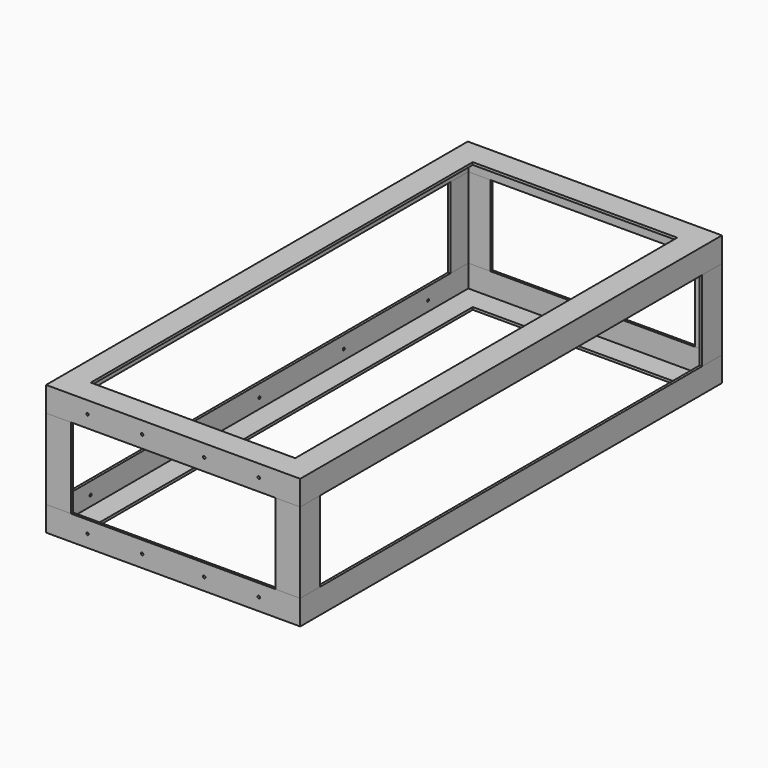
from build123d import *

# Parameters (mm, degrees)
F12_R     = 2.5
F13_DEPTH = 4.9999998882
F14_R     = 2.5
F15_DEPTH = 4.9999998882


with BuildPart() as f2:
    # F2: sweep along a path in F0
    with BuildLine(Plane.XY) as f2_path:
        Line((0, 0), (512, 0))
        Line((512, 0), (512, 1062))
        Line((512, 1062), (0, 1062))
        Line((0, 1062), (0, 0))
    # F1 (on Right) → F2 (sweep)
    with BuildSketch(Plane.YZ):
        Polygon((4.9999998882, 50), (0, 50), (0, 0), (50, 0), (50, 4.9999998882), (4.9999998882, 4.9999998882), align=None)
    sweep(path=f2_path.line, transition=Transition.RIGHT)


with BuildPart() as f4_1:
    # F4: instance of F2
    add(f2.part.mirror(Plane.XY.offset(131)))


with BuildPart() as f7:
    # F7: sweep along a path in F5
    with BuildLine(Plane.XZ) as f7_path:
        Line((0, 50), (0, 212))
    # F6 (on face) → F7 (sweep)
    with BuildSketch(Plane.XY.offset(50)):
        Polygon((4.9999998882, 50), (0, 50), (0, 0), (50, 0), (50, 4.9999998882), (4.9999998882, 4.9999998882), align=None)
    sweep(path=f7_path.line)


with BuildPart() as f9_1:
    # F9: instance of F7
    add(f7.part.mirror(Plane.XZ.offset(-531)))


with BuildPart() as f11_1:
    # F11: instance of F7
    add(f7.part.mirror(Plane.YZ.offset(256)))


with BuildPart() as f11_2:
    # F11: instance of F9_1
    add(f9_1.part.mirror(Plane.YZ.offset(256)))


with BuildPart() as f13_tool:
    # F12 (on face) → F13 (new body, through all)
    with BuildSketch(Plane(origin=(0, 0, 0), x_dir=(0, -1, 0), z_dir=(-1, 0, 0))):
        with Locations((-956, 237)):
            Circle(F12_R)
        with Locations((-743.5, 237)):
            Circle(F12_R)
        with Locations((-318.5, 237)):
            Circle(F12_R)
        with Locations((-106, 237)):
            Circle(F12_R)
        with Locations((-318.5, 25)):
            Circle(F12_R)
        with Locations((-743.5, 25)):
            Circle(F12_R)
        with Locations((-106, 25)):
            Circle(F12_R)
        with Locations((-956, 25)):
            Circle(F12_R)
        with Locations((-531, 237)):
            Circle(F12_R)
        with Locations((-531, 25)):
            Circle(F12_R)
    extrude(amount=-F13_DEPTH)


with BuildPart() as f2_1:
    add(f2.part)

    # F13: cut by f13_tool
    add(f13_tool.part, mode=Mode.SUBTRACT)


with BuildPart() as f4_1_1:
    add(f4_1.part)

    # F13: cut by f13_tool
    add(f13_tool.part, mode=Mode.SUBTRACT)


with BuildPart() as f15_tool:
    # F14 (on face) → F15 (new body, through all)
    with BuildSketch(Plane.XZ):
        with Locations((83.5, 237)):
            Circle(F14_R)
        with Locations((193.5, 237)):
            Circle(F14_R)
        with Locations((318.5, 237)):
            Circle(F14_R)
        with Locations((428.5, 237)):
            Circle(F14_R)
        with Locations((83.5, 25)):
            Circle(F14_R)
        with Locations((193.5, 25)):
            Circle(F14_R)
        with Locations((318.5, 25)):
            Circle(F14_R)
        with Locations((428.5, 25)):
            Circle(F14_R)
    extrude(amount=-F15_DEPTH)


with BuildPart() as f2_2:
    add(f2_1.part)

    # F15: cut by f15_tool
    add(f15_tool.part, mode=Mode.SUBTRACT)


with BuildPart() as f4_1_2:
    add(f4_1_1.part)

    # F15: cut by f15_tool
    add(f15_tool.part, mode=Mode.SUBTRACT)


solid = Compound([f7.part, f9_1.part, f11_1.part, f11_2.part, f2_2.part, f4_1_2.part])
